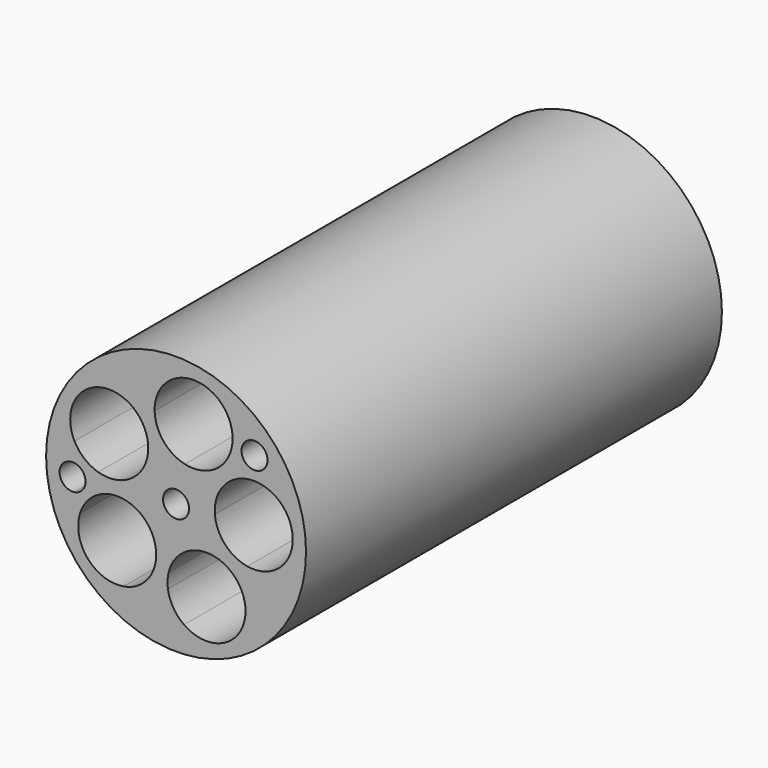
from build123d import *

# Parameters (mm, degrees)
F0_R     = 10
F0_R_2   = 1
F1_DEPTH = 40


with BuildPart() as f1:
    # F0 (on Front) → F1 (new body)
    with BuildSketch(Plane.XZ):
        Circle(F0_R)
        with BuildLine():
            ThreePointArc((6.6435448727, 4.4568275179), (7.0165111824, 3.8429898293), (7.3329177707, 3.1981740052))
            ThreePointArc((7.3329177707, 3.1981740052), (8.5333245383, 2.0924606947), (8.9772542605, 0.5219497159))
            ThreePointArc((8.9772542605, 0.5219497159), (8.6602558801, -0.8202508315), (7.776252721, -1.8788011123))
            ThreePointArc((7.776252721, -1.8788011123), (6.8566594958, -4.1214342842), (5.3076404374, -5.9857291107))
            ThreePointArc((5.3076404374, -5.9857291107), (3.5152152369, -8.2851229223), (0.6161482026, -7.9762372954))
            ThreePointArc((0.6161482026, -7.9762372954), (-1.8008926237, -7.7946639285), (-4.0526155804, -6.8975580431))
            ThreePointArc((-4.0526155804, -6.8975580431), (-6.7933588965, -5.9034121407), (-7.3954521896, -3.0507846385))
            ThreePointArc((-7.3954521896, -3.0507846385), (-7.630756176, -2.4024071642), (-7.8093348718, -1.7361707463))
            ThreePointArc((-7.8093348718, -1.7361707463), (-8.9605366896, -0.8418920566), (-7.9960562334, 0.251166702))
            ThreePointArc((-7.9960562334, 0.251166702), (-7.9383510901, 0.9912527276), (-7.8122946094, 1.7228038007))
            ThreePointArc((-7.8122946094, 1.7228038007), (-7.7137419327, 4.6366135697), (-5.186789018, 6.0907486964))
            ThreePointArc((-5.186789018, 6.0907486964), (-3.1246357662, 7.3645537087), (-0.7756480184, 7.9623093479))
            ThreePointArc((-0.7756480184, 7.9623093479), (2.0260042016, 8.7689969195), (4.189840284, 6.8150743499))
            ThreePointArc((4.189840284, 6.8150743499), (4.7806533049, 6.4144644343), (5.3334042334, 5.9627845243))
            ThreePointArc((5.3334042334, 5.9627845243), (6.4214881928, 6.1733853396), (7.035627896, 5.2508281158))
            ThreePointArc((7.035627896, 5.2508281158), (6.9322652186, 4.8080623632), (6.6435448727, 4.4568275179))
        make_face(mode=Mode.SUBTRACT)
        with BuildLine():
            ThreePointArc((-2.5712473173, 1.5455378459), (-1.1717384371, 2.7617076302), (0.6753346935, 2.9229989825))
            ThreePointArc((0.6753346935, 2.9229989825), (-0.9731935316, 3.9487207499), (-1.6483458018, 5.7691382474))
            ThreePointArc((-1.6483458018, 5.7691382474), (-2.3434768246, 5.5234152815), (-3.0032221992, 5.1942907526))
            ThreePointArc((-3.0032221992, 5.1942907526), (-2.3660024763, 4.2273377279), (-2.1424946218, 3.0910757132))
            ThreePointArc((-2.1424946218, 3.0910757132), (-2.2516693146, 2.2891224456), (-2.5712473173, 1.5455378459))
        make_face()
        with BuildLine():
            ThreePointArc((0.6753346935, 2.9229989825), (2.2644529469, 1.9678040683), (2.9886271289, 0.2609748731))
            ThreePointArc((2.9886271289, 0.2609748731), (3.454723253, 2.1457838566), (4.9774096583, 3.3504317772))
            ThreePointArc((4.9774096583, 3.3504317772), (4.528905931, 3.9356080938), (4.0120173703, 4.4613581587))
            ThreePointArc((4.0120173703, 4.4613581587), (2.6067344642, 3.1216079734), (0.6753346935, 2.9229989825))
        make_face()
        with BuildLine():
            ThreePointArc((2.9886271289, 0.2609748731), (2.9971554336, 0.1306112807), (3, 0))
            ThreePointArc((3, 0), (2.5015210631, -1.6560170201), (1.1717384193, -2.7617076378))
            ThreePointArc((1.1717384193, -2.7617076378), (3.1083299118, -2.6225533829), (4.7245541465, -3.6984575321))
            ThreePointArc((4.7245541465, -3.6984575321), (5.1424946218, -3.0910757132), (5.4827852975, -2.4370197745))
            ThreePointArc((5.4827852975, -2.4370197745), (3.7743508626, -1.5145218945), (2.9886271289, 0.2609748731))
        make_face()
        with BuildLine():
            ThreePointArc((-0.5795221486, -4.8480805477), (0.0456612251, -3.5946738602), (1.1717384193, -2.7617076378))
            ThreePointArc((1.1717384193, -2.7617076378), (-0.675334733, -2.9229989734), (-2.2644529693, -1.9678040425))
            ThreePointArc((-2.2644529693, -1.9678040425), (-1.7188028292, -2.8852174249), (-1.528905931, -3.9356080938))
            ThreePointArc((-1.528905931, -3.9356080938), (-1.5482183493, -4.2754632692), (-1.6059069578, -4.6109428277))
            Line((-1.6059069578, -4.6109428277), (-0.5795221486, -4.8480805477))
        make_face()
        with BuildLine():
            ThreePointArc((-0.6234697034, -5.9675192106), (-0.654213992, -5.4057302436), (-0.5795221486, -4.8480805477))
            Line((-0.5795221486, -4.8480805477), (-1.6059069578, -4.6109428277))
            ThreePointArc((-1.6059069578, -4.6109428277), (-1.783407838, -5.1448393461), (-2.057474614, -5.636204238))
            ThreePointArc((-2.057474614, -5.636204238), (-1.3506694677, -5.8459979464), (-0.6234697034, -5.9675192106))
        make_face()
        with BuildLine():
            ThreePointArc((0.6161482026, -7.9762372954), (-0.2095198229, -7.0989177785), (-0.6234697034, -5.9675192106))
            ThreePointArc((-0.6234697034, -5.9675192106), (-1.3506694677, -5.8459979464), (-2.057474614, -5.636204238))
            ThreePointArc((-2.057474614, -5.636204238), (-2.9257780157, -6.4713487918), (-4.0526155804, -6.8975580431))
            ThreePointArc((-4.0526155804, -6.8975580431), (-1.8008926237, -7.7946639285), (0.6161482026, -7.9762372954))
        make_face()
        with BuildLine():
            ThreePointArc((-5.8681107652, -1.2511099262), (-3.9437276347, -0.993233821), (-2.2644529693, -1.9678040425))
            ThreePointArc((-2.2644529693, -1.9678040425), (-2.9886271299, -0.2609748613), (-2.5712473173, 1.5455378459))
            ThreePointArc((-2.5712473173, 1.5455378459), (-4.0561899268, 0.2946597731), (-5.996143389, 0.2150917455))
            ThreePointArc((-5.996143389, 0.2150917455), (-5.9772542605, -0.5219497159), (-5.8681107652, -1.2511099262))
        make_face()
        with BuildLine():
            ThreePointArc((-7.3954521896, -3.0507846385), (-6.8162171978, -1.9944210424), (-5.8681107652, -1.2511099262))
            ThreePointArc((-5.8681107652, -1.2511099262), (-5.9772542605, -0.5219497159), (-5.996143389, 0.2150917455))
            ThreePointArc((-5.996143389, 0.2150917455), (-7.0587335663, 0.7828234939), (-7.8122946094, 1.7228038007))
            ThreePointArc((-7.8122946094, 1.7228038007), (-7.9383510901, 0.9912527276), (-7.9960562334, 0.251166702))
            ThreePointArc((-7.9960562334, 0.251166702), (-7.2689095521, -0.0303182964), (-6.9649215018, -0.7483484948))
            ThreePointArc((-6.9649215018, -0.7483484948), (-7.2047943315, -1.3981228287), (-7.8093348718, -1.7361707463))
            ThreePointArc((-7.8093348718, -1.7361707463), (-7.630756176, -2.4024071642), (-7.3954521896, -3.0507846385))
        make_face()
        with BuildLine():
            ThreePointArc((7.776252721, -1.8788011123), (6.686726826, -2.3929514281), (5.4827852975, -2.4370197745))
            ThreePointArc((5.4827852975, -2.4370197745), (5.1424946218, -3.0910757132), (4.7245541465, -3.6984575321))
            ThreePointArc((4.7245541465, -3.6984575321), (5.1845357791, -4.5598884178), (5.3434768246, -5.5234152815))
            ThreePointArc((5.3434768246, -5.5234152815), (5.3345043101, -5.755265623), (5.3076404374, -5.9857291107))
            ThreePointArc((5.3076404374, -5.9857291107), (6.8566594958, -4.1214342842), (7.776252721, -1.8788011123))
        make_face()
        with BuildLine():
            ThreePointArc((4.0120173703, 4.4613581587), (4.528905931, 3.9356080938), (4.9774096583, 3.3504317772))
            ThreePointArc((4.9774096583, 3.3504317772), (6.1707675187, 3.51570198), (7.3329177707, 3.1981740052))
            ThreePointArc((7.3329177707, 3.1981740052), (7.0165111824, 3.8429898293), (6.6435448727, 4.4568275179))
            ThreePointArc((6.6435448727, 4.4568275179), (5.281174409, 4.5944746013), (5.3334042334, 5.9627845243))
            ThreePointArc((5.3334042334, 5.9627845243), (4.7806533049, 6.4144644343), (4.189840284, 6.8150743499))
            ThreePointArc((4.189840284, 6.8150743499), (4.3101890613, 6.3371636776), (4.3506694677, 5.8459979464))
            ThreePointArc((4.3506694677, 5.8459979464), (4.2647768532, 5.1332720901), (4.0120173703, 4.4613581587))
        make_face()
        with BuildLine():
            ThreePointArc((1.1717384193, -2.7617076378), (2.5015210631, -1.6560170201), (3, 0))
            ThreePointArc((3, 0), (2.9971554336, 0.1306112807), (2.9886271289, 0.2609748731))
            ThreePointArc((2.9886271289, 0.2609748731), (2.2644529469, 1.9678040683), (0.6753346935, 2.9229989825))
            ThreePointArc((0.6753346935, 2.9229989825), (-1.1717384371, 2.7617076302), (-2.5712473173, 1.5455378459))
            ThreePointArc((-2.5712473173, 1.5455378459), (-2.9886271299, -0.2609748613), (-2.2644529693, -1.9678040425))
            ThreePointArc((-2.2644529693, -1.9678040425), (-0.675334733, -2.9229989734), (1.1717384193, -2.7617076378))
        make_face()
        Circle(F0_R_2, mode=Mode.SUBTRACT)
        with BuildLine():
            ThreePointArc((-3.0032221992, 5.1942907526), (-2.3434768246, 5.5234152815), (-1.6483458018, 5.7691382474))
            ThreePointArc((-1.6483458018, 5.7691382474), (-1.4367592458, 6.9551603182), (-0.7756480184, 7.9623093479))
            ThreePointArc((-0.7756480184, 7.9623093479), (-3.1246357662, 7.3645537087), (-5.186789018, 6.0907486964))
            ThreePointArc((-5.186789018, 6.0907486964), (-4.0031340801, 5.8662977864), (-3.0032221992, 5.1942907526))
        make_face()
    extrude(amount=F1_DEPTH)


solid = f1.part
